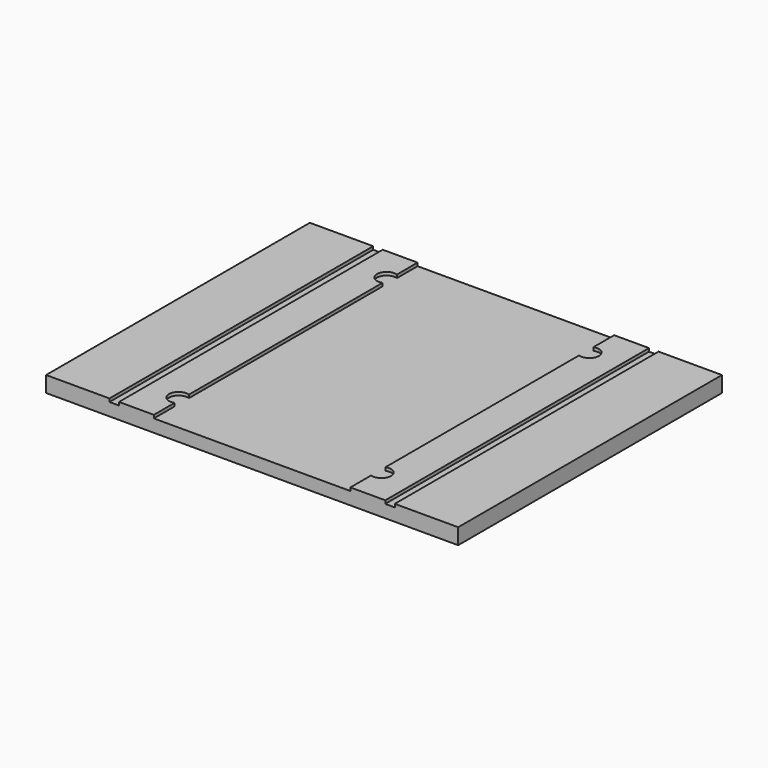
from build123d import *

# Parameters (mm, degrees)
F0_W     = 650
F0_H     = 520
F1_DEPTH = 25
F2_W     = 15
F2_H     = 520
F3_DEPTH = 5


with BuildPart() as f1:
    # F0 (on Top) → F1 (new body)
    with BuildSketch(Plane.XY):
        with Locations((325, 260)):
            Rectangle(F0_W, F0_H)
    extrude(amount=F1_DEPTH)

    # F2 (on face) → F3 (cut)
    with BuildSketch(Plane.XY.offset(25)):
        with Locations((107.5, 260)):
            Rectangle(F2_W, F2_H)
        with Locations((542.5, 260)):
            Rectangle(F2_W, F2_H)
        with BuildLine():
            ThreePointArc((170, 450.8578643763), (177.2474487139, 456.3397459622), (180, 465))
            ThreePointArc((180, 465), (177.2474487139, 473.6602540378), (170, 479.1421356237))
            Line((170, 479.1421356237), (170, 450.8578643763))
        make_face()
        with BuildLine():
            ThreePointArc((170, 479.1421356237), (177.2474487139, 473.6602540378), (180, 465))
            ThreePointArc((180, 465), (177.2474487139, 456.3397459622), (170, 450.8578643763))
            Line((170, 450.8578643763), (170, 69.1421356237))
            ThreePointArc((170, 69.1421356237), (177.2474487139, 63.6602540378), (180, 55))
            ThreePointArc((180, 55), (177.2474487139, 46.3397459622), (170, 40.8578643763))
            Line((170, 40.8578643763), (170, 0))
            Line((170, 0), (480, 0))
            Line((480, 0), (480, 40.8578643763))
            ThreePointArc((480, 40.8578643763), (470, 55), (480, 69.1421356237))
            Line((480, 69.1421356237), (480, 450.8578643763))
            ThreePointArc((480, 450.8578643763), (470, 465), (480, 479.1421356237))
            Line((480, 479.1421356237), (480, 520))
            Line((480, 520), (170, 520))
            Line((170, 520), (170, 479.1421356237))
        make_face()
        with BuildLine():
            Line((170, 450.8578643763), (170, 479.1421356237))
            ThreePointArc((170, 479.1421356237), (150, 465), (170, 450.8578643763))
        make_face()
        with BuildLine():
            Line((170, 40.8578643763), (170, 69.1421356237))
            ThreePointArc((170, 69.1421356237), (150, 55), (170, 40.8578643763))
        make_face()
        with BuildLine():
            ThreePointArc((180, 55), (177.2474487139, 63.6602540378), (170, 69.1421356237))
            Line((170, 69.1421356237), (170, 40.8578643763))
            ThreePointArc((170, 40.8578643763), (177.2474487139, 46.3397459622), (180, 55))
        make_face()
        with BuildLine():
            Line((480, 450.8578643763), (480, 479.1421356237))
            ThreePointArc((480, 479.1421356237), (470, 465), (480, 450.8578643763))
        make_face()
        with BuildLine():
            ThreePointArc((500, 465), (493.6602540378, 477.2474487139), (480, 479.1421356237))
            Line((480, 479.1421356237), (480, 450.8578643763))
            ThreePointArc((480, 450.8578643763), (493.6602540378, 452.7525512861), (500, 465))
        make_face()
        with BuildLine():
            Line((480, 40.8578643763), (480, 69.1421356237))
            ThreePointArc((480, 69.1421356237), (470, 55), (480, 40.8578643763))
        make_face()
        with BuildLine():
            ThreePointArc((500, 55), (493.6602540378, 67.2474487139), (480, 69.1421356237))
            Line((480, 69.1421356237), (480, 40.8578643763))
            ThreePointArc((480, 40.8578643763), (493.6602540378, 42.7525512861), (500, 55))
        make_face()
    extrude(amount=-F3_DEPTH, mode=Mode.SUBTRACT)


solid = f1.part
